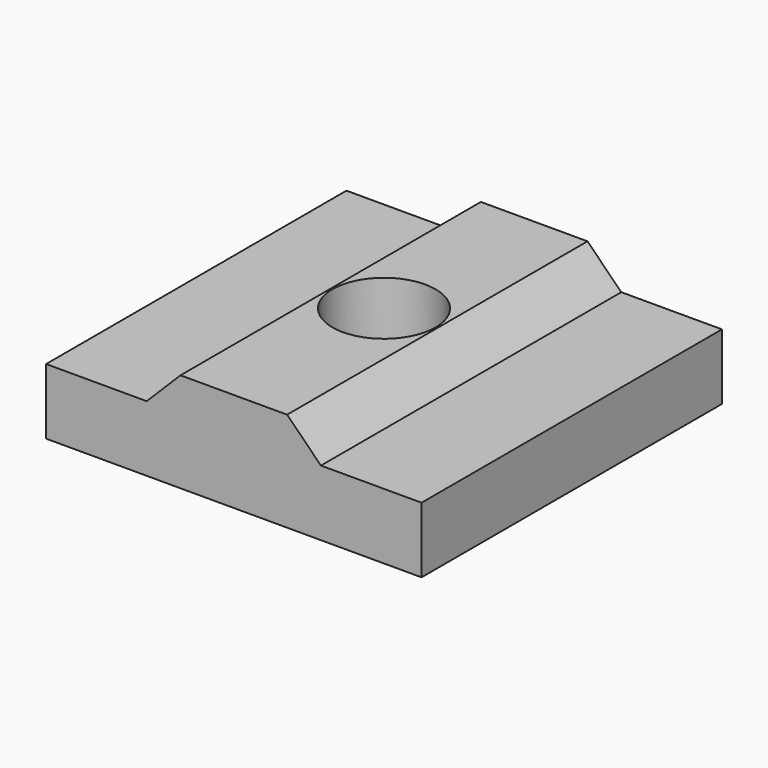
from build123d import *

# Parameters (mm, degrees)
F1_DEPTH = 10
F2_R     = 2.75
F3_DEPTH = 5.301


with BuildPart() as f1:
    # F0 (on Front) → F1 (new body, symmetric)
    with BuildSketch(Plane.XZ):
        Polygon((-10, 3.5), (-10, 0), (10, 0), (10, 3.5), (4.64, 3.5), (2.84, 5.3), (-2.84, 5.3), (-4.64, 3.5), align=None)
    extrude(amount=F1_DEPTH, both=True)

    # F2 (on face) → F3 (cut, through all)
    with BuildSketch(Plane(origin=(0, 0, 0), x_dir=(1, 0, 0), z_dir=(0, 0, -1))):
        Circle(F2_R)
    extrude(amount=-F3_DEPTH, mode=Mode.SUBTRACT)


solid = f1.part
